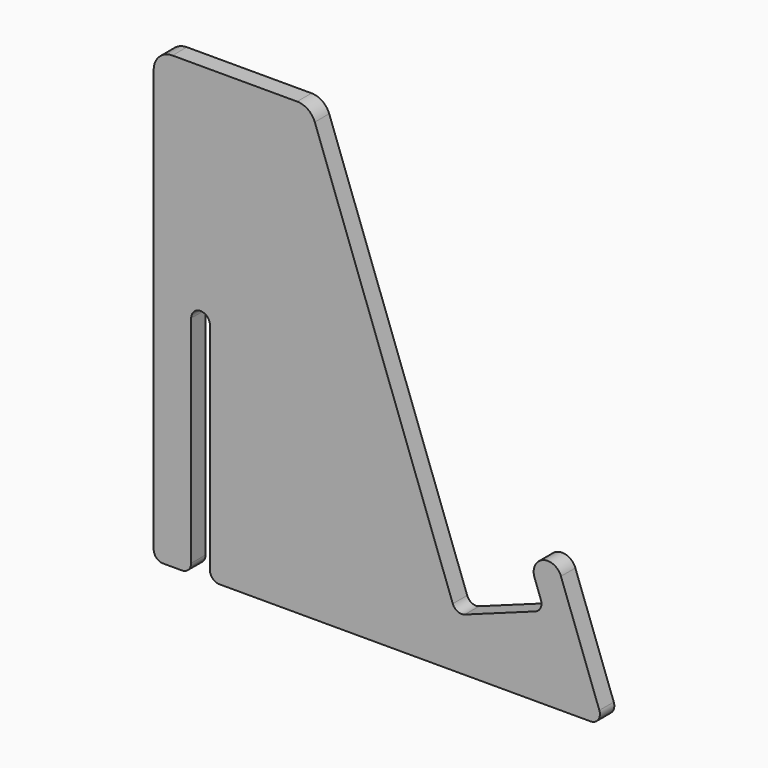
from build123d import *

# Parameters (mm, degrees)
F1_DEPTH = 6.096


with BuildPart() as f1:
    # F0 (on Front) → F1 (new body)
    with BuildSketch(Plane.XZ):
        with BuildLine():
            Line((-103.839319, 152.4), (-146.05, 152.4))
            ThreePointArc((-146.05, 152.4), (-150.540128, 150.540128), (-152.4, 146.05))
            Line((-152.4, 146.05), (-152.4, 3.175))
            ThreePointArc((-152.4, 3.175), (-151.470064, 0.929936), (-149.225, 0))
            Line((-149.225, 0), (-142.875, 0))
            ThreePointArc((-142.875, 0), (-140.629936, 0.929936), (-139.7, 3.175))
            Line((-139.7, 3.175), (-139.7, 76.2))
            ThreePointArc((-139.7, 76.2), (-138.770064, 78.445064), (-136.525, 79.375))
            ThreePointArc((-136.525, 79.375), (-134.279936, 78.445064), (-133.35, 76.2))
            Line((-133.35, 76.2), (-133.35, 3.175))
            ThreePointArc((-133.35, 3.175), (-132.420064, 0.929936), (-130.175, 0))
            Line((-130.175, 0), (-4.53437, 0))
            ThreePointArc((-4.53437, 0), (-1.933562, 1.353895), (-1.550846, 4.260914))
            Line((-1.550846, 4.260914), (-14.550568, 39.977357))
            ThreePointArc((-14.550568, 39.977357), (-20.654725, 42.823772), (-23.50114, 36.719615))
            Line((-23.50114, 36.719615), (-21.329312, 30.752567))
            ThreePointArc((-21.329312, 30.752567), (-21.435309, 28.32484), (-23.226922, 26.683129))
            Line((-23.226922, 26.683129), (-47.095115, 17.995817))
            ThreePointArc((-47.095115, 17.995817), (-49.522842, 18.101814), (-51.164553, 19.893427))
            Line((-51.164553, 19.893427), (-97.872271, 148.221828))
            ThreePointArc((-97.872271, 148.221828), (-100.197109, 151.251615), (-103.839319, 152.4))
        make_face()
    extrude(amount=-F1_DEPTH)


solid = f1.part
